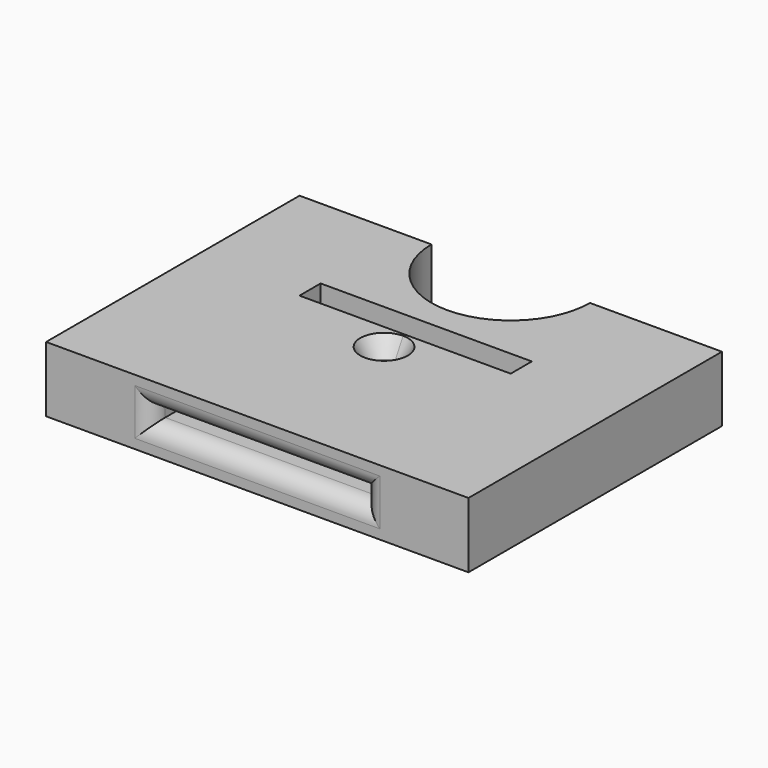
from build123d import *

# Parameters (mm, degrees)
F0_R     = 1.5875
F1_DEPTH = 3.175
F2_DEPTH = 1.524
F4_DEPTH = 3.175
F5_R     = 2.032
F6_SIZE2 = 1.27
F6_SIZE  = 2.286


with BuildPart() as f1:
    # F0 (on Top) → F1 (new body)
    with BuildSketch(Plane.XY):
        with BuildLine():
            Line((-9.6292242988, 40.124001728), (0.2798453521, 40.124001728))
            Line((0.2798453521, 40.124001728), (10.1889150029, 40.124001728))
            Line((10.1889150029, 40.124001728), (12.9798453521, 40.124001728))
            Line((12.9798453521, 40.124001728), (12.9798453521, 36.9588285685))
            Line((12.9798453521, 36.9588285685), (12.9798453521, 14.724001728))
            Line((12.9798453521, 14.724001728), (25.6798453521, 14.724001728))
            Line((25.6798453521, 14.724001728), (25.6798453521, 52.824001728))
            Line((25.6798453521, 52.824001728), (9.8048453521, 52.824001728))
            ThreePointArc((9.8048453521, 52.824001728), (0.2798453521, 43.299001728), (-9.2451546479, 52.824001728))
            Line((-9.2451546479, 52.824001728), (-25.1201546479, 52.824001728))
            Line((-25.1201546479, 52.824001728), (-25.1201546479, 14.724001728))
            Line((-25.1201546479, 14.724001728), (-12.4201546479, 14.724001728))
            Line((-12.4201546479, 14.724001728), (-12.4201546479, 36.9588285685))
            Line((-12.4201546479, 36.9588285685), (-12.4201546479, 40.124001728))
            Line((-12.4201546479, 40.124001728), (-9.6292242988, 40.124001728))
        make_face()
        Polygon((10.1889150029, 40.124001728), (0.2798453521, 40.124001728), (-9.6292242988, 40.124001728), (-12.4201546479, 40.124001728), (-12.4201546479, 36.9588285685), (-9.5826818713, 36.9588285685), (0.2798453521, 36.9588285685), (12.9798453521, 36.9588285685), (12.9798453521, 40.124001728), align=None)
        Polygon((12.9798453521, 14.724001728), (12.9798453521, 36.9588285685), (0.2798453521, 36.9588285685), (-9.5826818713, 36.9588285685), (-12.4201546479, 36.9588285685), (-12.4201546479, 14.724001728), align=None)
        with Locations((0.2798453521, 33.3929099143)):
            Circle(F0_R, mode=Mode.SUBTRACT)
        with Locations((0.2798453521, 33.3929099143)):
            Circle(F0_R)
    extrude(amount=-F1_DEPTH)

    # F0 (on Top) → F2 (join)
    with BuildSketch(Plane.XY):
        with BuildLine():
            Line((-9.6292242988, 40.124001728), (0.2798453521, 40.124001728))
            Line((0.2798453521, 40.124001728), (10.1889150029, 40.124001728))
            Line((10.1889150029, 40.124001728), (12.9798453521, 40.124001728))
            Line((12.9798453521, 40.124001728), (12.9798453521, 36.9588285685))
            Line((12.9798453521, 36.9588285685), (12.9798453521, 14.724001728))
            Line((12.9798453521, 14.724001728), (25.6798453521, 14.724001728))
            Line((25.6798453521, 14.724001728), (25.6798453521, 52.824001728))
            Line((25.6798453521, 52.824001728), (9.8048453521, 52.824001728))
            ThreePointArc((9.8048453521, 52.824001728), (0.2798453521, 43.299001728), (-9.2451546479, 52.824001728))
            Line((-9.2451546479, 52.824001728), (-25.1201546479, 52.824001728))
            Line((-25.1201546479, 52.824001728), (-25.1201546479, 14.724001728))
            Line((-25.1201546479, 14.724001728), (-12.4201546479, 14.724001728))
            Line((-12.4201546479, 14.724001728), (-12.4201546479, 36.9588285685))
            Line((-12.4201546479, 36.9588285685), (-12.4201546479, 40.124001728))
            Line((-12.4201546479, 40.124001728), (-9.6292242988, 40.124001728))
        make_face()
    extrude(amount=F2_DEPTH)

    # F3 (on face) → F4 (join)
    with BuildSketch(Plane.XY.offset(1.524)):
        with BuildLine():
            Line((-25.1201546479, 14.724001728), (-12.4201546479, 14.724001728))
            Line((-12.4201546479, 14.724001728), (-12.4201546479, 36.9455851614))
            Line((-12.4201546479, 36.9455851614), (-12.4201546479, 40.124001728))
            Line((-12.4201546479, 40.124001728), (0.2798453521, 40.124001728))
            Line((0.2798453521, 40.124001728), (12.9798453521, 40.124001728))
            Line((12.9798453521, 40.124001728), (12.9798453521, 36.9455851614))
            Line((12.9798453521, 36.9455851614), (12.9798453521, 14.724001728))
            Line((12.9798453521, 14.724001728), (25.6798453521, 14.724001728))
            Line((25.6798453521, 14.724001728), (25.6798453521, 52.824001728))
            Line((25.6798453521, 52.824001728), (9.8048453521, 52.824001728))
            ThreePointArc((9.8048453521, 52.824001728), (0.2798453521, 43.299001728), (-9.2451546479, 52.824001728))
            Line((-9.2451546479, 52.824001728), (-25.1201546479, 52.824001728))
            Line((-25.1201546479, 52.824001728), (-25.1201546479, 14.724001728))
        make_face()
        Polygon((-12.4201546479, 36.9455851614), (-12.4201546479, 14.724001728), (12.9798453521, 14.724001728), (12.9798453521, 36.9455851614), (0.2798453521, 36.9455851614), align=None)
        with BuildLine():
            ThreePointArc((1.8673453521, 33.7810702622), (-0.8426866631, 32.6585382471), (0.2798453521, 35.3685702622))
            ThreePointArc((0.2798453521, 35.3685702622), (1.4023773672, 34.9036022773), (1.8673453521, 33.7810702622))
        make_face(mode=Mode.SUBTRACT)
    extrude(amount=F4_DEPTH)

    # F5
    f5_edges = [f1.edges().sort_by_distance(p)[0] for p in [
        (0.279845, 14.724002, 1.524),
        (0.279845, 14.724002, 0),
        (-12.420155, 14.724002, 0.762),
        (12.979845, 14.724002, 0.762),
    ]]
    fillet(f5_edges, radius=F5_R)

    # F6
    f6_edges = [f1.edges().sort_by_distance(p)[0] for p in [
        (0.279845, 32.19357, 4.699),
    ]]
    f6_side = f1.faces().sort_by_distance((0.279845, 32.19357, 3.1115))[0]
    chamfer(f6_edges, length=F6_SIZE, length2=F6_SIZE2, reference=f6_side)


solid = f1.part
